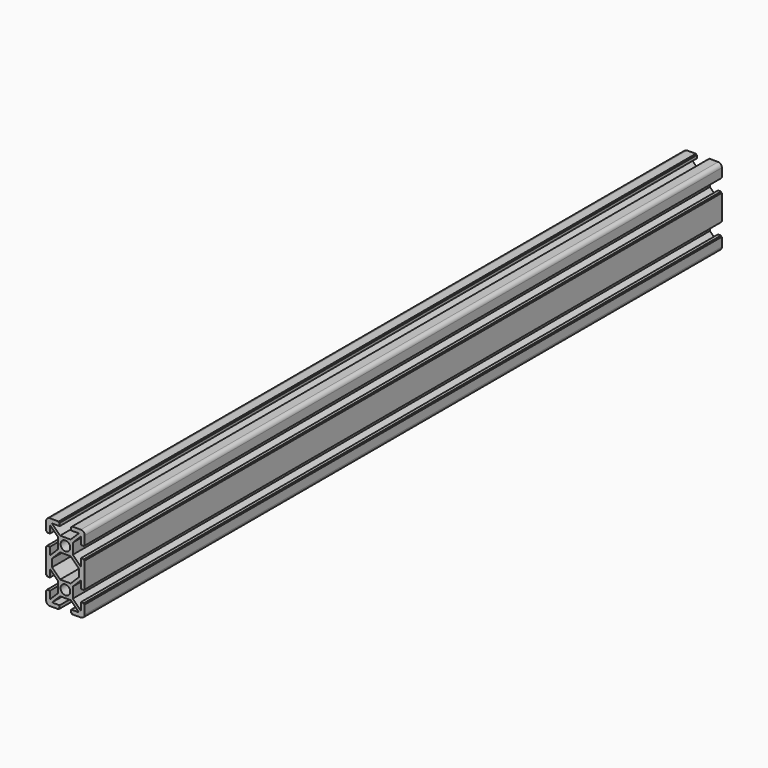
from build123d import *

# Parameters (mm, degrees)
F0_R     = 2.5
F2_DEPTH = 412


with BuildPart() as f2:
    # F0 (on Front) → F2 (new body)
    with BuildSketch(Plane.XZ):
        with BuildLine():
            Line((6.5, 0), (2, 0))
            ThreePointArc((2, 0), (0.5857864376, -0.5857864376), (0, -2))
            Line((0, -2), (0, -6.4857100192))
            Line((0, -6.4857100192), (0.4948230833, -6.489995392))
            Line((0.4948230833, -6.489995392), (0.4948230833, -7))
            Line((0.4948230833, -7), (2, -7))
            Line((2, -7), (2, -3.0833937817))
            Line((2, -3.0833937817), (6.2, -7.2637052917))
            Line((6.2, -7.2637052917), (6.2, -12.7393398282))
            Line((6.2, -12.7393398282), (2, -16.9393398282))
            Line((2, -16.9393398282), (2, -13))
            Line((2, -13), (0.5, -13))
            Line((0.5, -13), (0.5, -13.5))
            Line((0.5, -13.5), (0, -13.5))
            Line((0, -13.5), (0, -26.4857100192))
            Line((0, -26.4857100192), (0.4948230833, -26.489995392))
            Line((0.4948230833, -26.489995392), (0.4948230833, -27))
            Line((0.4948230833, -27), (2, -27))
            Line((2, -27), (2, -23.0833937817))
            Line((2, -23.0833937817), (6.2, -27.2637052917))
            Line((6.2, -27.2637052917), (6.2, -32.7393398282))
            Line((6.2, -32.7393398282), (2, -36.9393398282))
            Line((2, -36.9393398282), (2, -33))
            Line((2, -33), (0.5, -33))
            Line((0.5, -33), (0.5, -33.5))
            Line((0.5, -33.5), (0, -33.5))
            Line((0, -33.5), (0, -38))
            ThreePointArc((0, -38), (0.5857864376, -39.4142135624), (2, -40))
            Line((2, -40), (6.5, -40))
            Line((6.5, -40), (6.5, -39.5))
            Line((6.5, -39.5), (7, -39.5))
            Line((7, -39.5), (7, -38))
            Line((7, -38), (3.0606601718, -38))
            Line((3.0606601718, -38), (7.2606601718, -33.8))
            Line((7.2606601718, -33.8), (12.7393398282, -33.8))
            Line((12.7393398282, -33.8), (16.9393398282, -38))
            Line((16.9393398282, -38), (13.015800612, -38))
            Line((13.015800612, -38), (13.015800612, -39.5))
            Line((13.015800612, -39.5), (13.5, -39.5))
            Line((13.5, -39.5), (13.5, -40))
            Line((13.5, -40), (18, -40))
            ThreePointArc((18, -40), (19.4142135624, -39.4142135624), (20, -38))
            Line((20, -38), (20, -33.4626608249))
            Line((20, -33.4626608249), (19.5363645284, -33.4624647606))
            Line((19.5363645284, -33.4624647606), (19.532302618, -32.9822008219))
            Line((19.532302618, -32.9822008219), (18, -32.9822008219))
            Line((18, -32.9822008219), (17.9998106987, -36.9393398192))
            Line((17.9998106987, -36.9393398192), (13.8264202785, -32.765949399))
            Line((13.8264202785, -32.765949399), (13.8264202785, -27.246708479))
            Line((13.8264202785, -27.246708479), (17.9998106987, -23.0606601627))
            Line((17.9998106987, -23.0606601627), (17.9998106987, -26.9999999909))
            Line((17.9998106987, -26.9999999909), (19.4998106987, -26.9999999909))
            Line((19.4998106987, -26.9999999909), (19.4998106987, -26.4999999909))
            Line((19.4998106987, -26.4999999909), (20, -26.4999999909))
            Line((20, -26.4999999909), (20, -13.4626608249))
            Line((20, -13.4626608249), (19.5363645284, -13.4624647606))
            Line((19.5363645284, -13.4624647606), (19.532302618, -12.9822008219))
            Line((19.532302618, -12.9822008219), (18, -12.9822008219))
            Line((18, -12.9822008219), (17.9998106987, -16.9393398192))
            Line((17.9998106987, -16.9393398192), (13.8264202785, -12.765949399))
            Line((13.8264202785, -12.765949399), (13.8264202785, -7.246708479))
            Line((13.8264202785, -7.246708479), (17.9998106987, -3.0606601627))
            Line((17.9998106987, -3.0606601627), (17.9998106987, -6.9999999909))
            Line((17.9998106987, -6.9999999909), (19.4998106987, -6.9999999909))
            Line((19.4998106987, -6.9999999909), (19.4998106987, -6.4999999909))
            Line((19.4998106987, -6.4999999909), (20, -6.4999999909))
            Line((20, -6.4999999909), (20, -2))
            ThreePointArc((20, -2), (19.4142135624, -0.5857864376), (18, 0))
            Line((18, 0), (13.4962801728, 0.0202495232))
            Line((13.4962801728, 0.0202495232), (13.5, -0.5))
            Line((13.5, -0.5), (13.015800612, -0.5))
            Line((13.015800612, -0.5), (13.015800612, -2))
            Line((13.015800612, -2), (16.9393398282, -2))
            Line((16.9393398282, -2), (12.7393121854, -6.2000276428))
            Line((12.7393121854, -6.2000276428), (7.2606601718, -6.2))
            Line((7.2606601718, -6.2), (3.0606601718, -2))
            Line((3.0606601718, -2), (7, -2))
            Line((7, -2), (7, -0.5))
            Line((7, -0.5), (6.5, -0.5))
            Line((6.5, -0.5), (6.5, 0))
        make_face()
        with Locations((10, -30)):
            Circle(F0_R, mode=Mode.SUBTRACT)
        Polygon((7.2606601718, -13.8), (12.7393398282, -13.8), (16.9393398282, -18), (16.9393398282, -22), (12.7393121854, -26.2000276428), (7.2606601718, -26.2), (3.0606601718, -22), (3.0606601718, -18), align=None, mode=Mode.SUBTRACT)
        with Locations((10, -10)):
            Circle(F0_R, mode=Mode.SUBTRACT)
    extrude(amount=F2_DEPTH)


solid = f2.part
